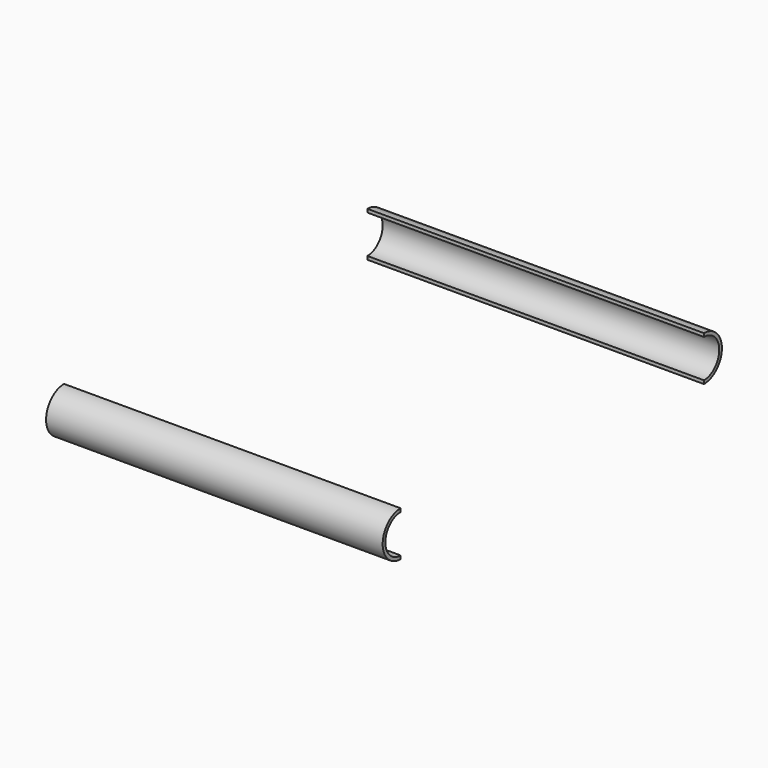
from build123d import *

# Parameters (mm, degrees)
BOX003_W      = 150
BOX003_H      = 169
BOX003_DEPTH  = 22
TUBE001_R     = 10
TUBE001_R_2   = 8.5
TUBE001_DEPTH = 150
TUBE_R        = 10
TUBE_R_2      = 8.5
TUBE_DEPTH    = 150


with BuildPart() as cube:
    # Box003 → Box003 (new body)
    with BuildSketch(Plane.XY.offset(-11)):
        with Locations((75, 84.5)):
            Rectangle(BOX003_W, BOX003_H)
    extrude(amount=BOX003_DEPTH)


with BuildPart() as rightcurve:
    # Tube001 → Tube001 (new body)
    with BuildSketch(Plane(origin=(0, 169, 0), x_dir=(0, 0, -1), z_dir=(1, 0, 0))):
        Circle(TUBE001_R)
        Circle(TUBE001_R_2, mode=Mode.SUBTRACT)
    extrude(amount=TUBE001_DEPTH)


with BuildPart() as cut:
    # Tube → Tube (new body)
    with BuildSketch(Plane(origin=(0, 0, 0), x_dir=(0, 0, -1), z_dir=(1, 0, 0))):
        Circle(TUBE_R)
        Circle(TUBE_R_2, mode=Mode.SUBTRACT)
    extrude(amount=TUBE_DEPTH)

    # Fusion002: union RightCurve
    add(rightcurve.part)

    # Cut: cut Cube
    add(cube.part, mode=Mode.SUBTRACT)


solid = cut.part
